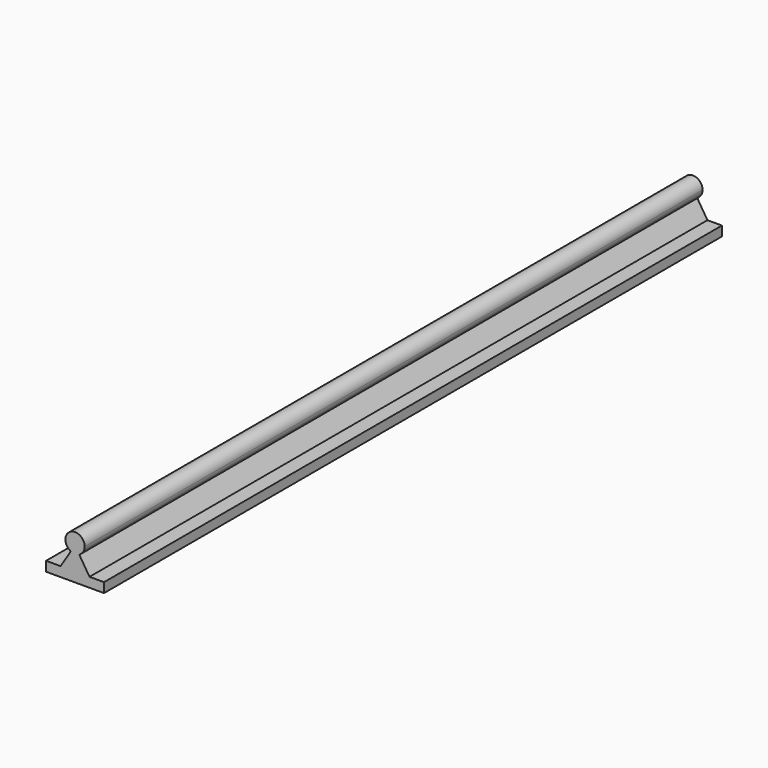
from build123d import *

# Parameters (mm, degrees)
F1_DEPTH = 508


with BuildPart() as f1:
    # F0 (on Front) → F1 (new body)
    with BuildSketch(Plane.XZ):
        with BuildLine():
            ThreePointArc((-21.52567, 4.242823), (-18.903543, 6.585581), (-17.929995, 9.964378))
            ThreePointArc((-17.929995, 9.964378), (-27.658792, 15.34083), (-27.034319, 4.242823))
            ThreePointArc((-27.034319, 4.242823), (-24.279995, 3.614378), (-21.52567, 4.242823))
        make_face()
        with BuildLine():
            ThreePointArc((-21.52567, 4.242823), (-24.279995, 3.614378), (-27.034319, 4.242823))
            Line((-27.034319, 4.242823), (-33.804995, -6.501848))
            Line((-33.804995, -6.501848), (-24.279995, -6.501848))
            Line((-24.279995, -6.501848), (-14.754995, -6.501848))
            Line((-14.754995, -6.501848), (-21.52567, 4.242823))
        make_face()
        Polygon((-24.279995, -6.501848), (-33.804995, -6.501848), (-43.329995, -6.501848), (-43.329995, -12.851848), (-5.229995, -12.851848), (-5.229995, -6.501848), (-14.754995, -6.501848), align=None)
    extrude(amount=F1_DEPTH)


solid = f1.part
